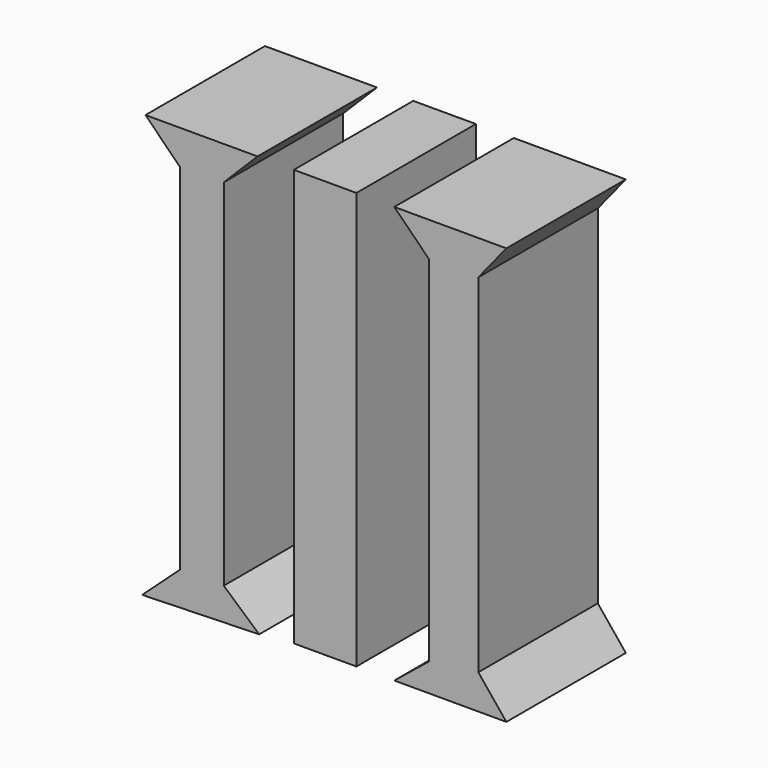
from build123d import *

# Parameters (mm, degrees)
F0_W     = 10.652607
F0_H     = 70.923931
F1_DEPTH = 25.4


with BuildPart() as f1:
    # F0 (on Front) → F1 (new body)
    with BuildSketch(Plane.XZ):
        Polygon((-44.874448, 46.304666), (-63.937008, 46.304666), (-58.05004, 40.417701), (-58.05004, -19.853624), (-64.497672, -25.74059), (-44.594117, -25.179928), (-50.621245, -19.853624), (-50.621245, 40.557865), align=None)
        with Locations((-33.380848, 10.8427)):
            Rectangle(F0_W, F0_H)
        Polygon((-2.544356, 46.304666), (-21.606913, 46.304666), (-15.719946, 40.417701), (-15.719946, -19.853624), (-21.606913, -24.619265), (-2.544356, -24.619265), (-7.309995, -18.732296), (-7.309995, 40.417701), align=None)
    extrude(amount=F1_DEPTH)


solid = f1.part
